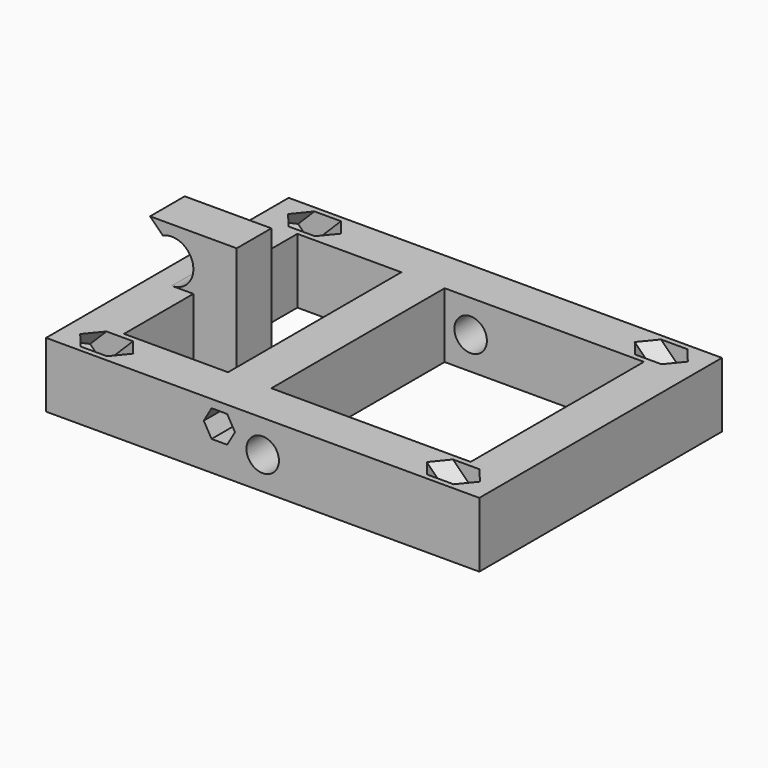
from build123d import *

# Parameters (mm, degrees)
F1_DEPTH  = 9.525
F6_DEPTH  = 9.525
F2_R      = 4.7625
F8_DEPTH  = 80.01
F9_W      = 12.7
F9_H      = 19.05
F10_DEPTH = 63.5
F0_W      = 12.7
F0_H      = 12.7
F11_DEPTH = 25.4
F13_DEPTH = 12.7
F14_DEPTH = 9.525


with BuildPart() as f1:
    # F0 (on Top) → F1 (new body, symmetric)
    with BuildSketch(Plane.XY):
        Polygon((-63.5, -44.45), (0, -44.45), (0, -31.75), (-50.8, -31.75), (-50.8, -6.35), (-50.8, 6.35), (-50.8, 31.75), (0, 31.75), (0, 44.45), (-63.5, 44.45), align=None)
    extrude(amount=F1_DEPTH, both=True)

    # F5 (on line) → F6 (cut, symmetric)
    with BuildSketch(Plane(origin=(-20.6375, 0, -20.6375), x_dir=(0, 1, 0), z_dir=(0.7071067812, 0, 0.7071067812))):
        Polygon((-42.8625, 39.9065859181), (-38.1, 37.156955261), (-33.3375, 39.9065859181), (-33.3375, 45.4058472321), (-38.1, 48.1554778891), (-42.8625, 45.4058472321), align=None)
        Polygon((33.3375, 39.9065859181), (38.1, 37.156955261), (42.8625, 39.9065859181), (42.8625, 45.4058472321), (38.1, 48.1554778891), (33.3375, 45.4058472321), align=None)
    extrude(amount=F6_DEPTH, both=True, mode=Mode.SUBTRACT)

    # F7: F1 across plane


with BuildPart() as f1_1:
    add(f1.part)
    add(f1.part.mirror(Plane.YZ))

    # F2 (on Front) → F8 (cut, symmetric)
    with BuildSketch(Plane.XZ):
        Circle(F2_R)
        Polygon((-10.4086411192, -0.79375), (-8.1172822383, 3.175), (-10.4086411192, 7.14375), (-14.9913588808, 7.14375), (-17.2827177617, 3.175), (-14.9913588808, -0.79375), align=None)
    extrude(amount=F8_DEPTH, both=True, mode=Mode.SUBTRACT)

    # F9 (on face) → F10 (join)
    with BuildSketch(Plane.XZ.offset(-31.75)):
        with Locations((-13.97, 0)):
            Rectangle(F9_W, F9_H)
        Polygon((-14.9913588808, -0.79375), (-17.2827177617, 3.175), (-14.9913588808, 7.14375), (-10.4086411192, 7.14375), (-8.1172822383, 3.175), (-10.4086411192, -0.79375), align=None, mode=Mode.SUBTRACT)
        Polygon((-14.9913588808, 7.14375), (-17.2827177617, 3.175), (-14.9913588808, -0.79375), (-10.4086411192, -0.79375), (-8.1172822383, 3.175), (-10.4086411192, 7.14375), align=None)
    extrude(amount=F10_DEPTH)

    # F0 (on Top) → F11 (join)
    with BuildSketch(Plane.XY):
        with Locations((-44.45, 0)):
            Rectangle(F0_W, F0_H)
    extrude(amount=F11_DEPTH)

    # F12 (on face) → F13 (join)
    with BuildSketch(Plane(origin=(0, 6.35, 0), x_dir=(-1, 0, 0), z_dir=(0, 1, 0))):
        with BuildLine():
            Line((50.8, 15.875), (50.8, 9.525))
            Line((50.8, 9.525), (57.15, 9.525))
            ThreePointArc((57.15, 9.525), (52.6598719395, 11.3848719395), (50.8, 15.875))
        make_face()
        with BuildLine():
            Line((50.8, 25.4), (50.8, 15.875))
            ThreePointArc((50.8, 15.875), (53.7052722756, 21.2094494472), (59.7626302063, 21.6626302063))
            Line((59.7626302063, 21.6626302063), (63.5, 25.4))
            Line((63.5, 25.4), (50.8, 25.4))
        make_face()
    extrude(amount=-F13_DEPTH)

    # F0 (on Top) → F14 (join)
    with BuildSketch(Plane.XY):
        with Locations((-44.45, 0)):
            Rectangle(F0_W, F0_H)
    extrude(amount=-F14_DEPTH)


solid = f1_1.part
